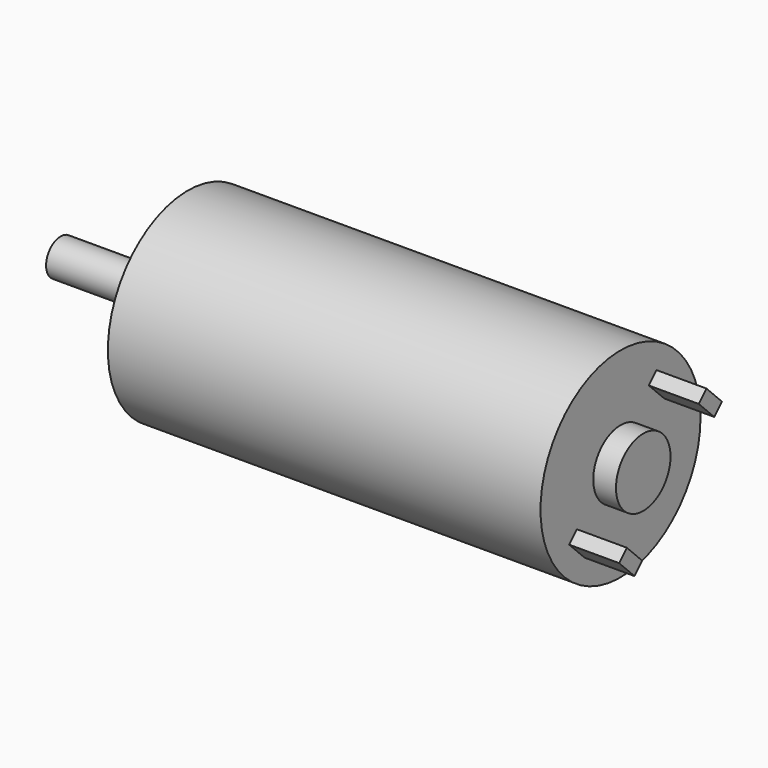
from build123d import *

# Parameters (mm, degrees)
F0_R      = 11
F1_DEPTH  = 47.6
F3_DEPTH  = 2
F4_R      = 2
F5_DEPTH  = 12
F6_R      = 1
F7_DEPTH  = 6
F8_R      = 3.75
F9_DEPTH  = 2.5
F11_DEPTH = 5.5


with BuildPart() as f1:
    # F0 (on Right) → F1 (new body)
    with BuildSketch(Plane.YZ):
        Circle(F0_R)
    extrude(amount=F1_DEPTH)

    # F2 (on face) → F3 (join)
    with BuildSketch(Plane(origin=(0, 0, 0), x_dir=(0, -1, 0), z_dir=(-1, 0, 0))):
        with BuildLine():
            Line((-6, 3.605551), (-6, -3.605551))
            ThreePointArc((-6, -3.605551), (0, -7), (6, -3.605551))
            Line((6, -3.605551), (6, 3.605551))
            ThreePointArc((6, 3.605551), (0, 7), (-6, 3.605551))
        make_face()
    extrude(amount=F3_DEPTH)

    # F4 (on face) → F5 (join)
    with BuildSketch(Plane(origin=(-2, 0, 0), x_dir=(0, -1, 0), z_dir=(-1, 0, 0))):
        Circle(F4_R)
    extrude(amount=F5_DEPTH)

    # F6 (on face) → F7 (cut)
    with BuildSketch(Plane(origin=(0, 0, 0), x_dir=(0, -1, 0), z_dir=(-1, 0, 0))):
        with Locations((6.363961, 6.363961)):
            Circle(F6_R)
        with Locations((6.363961, -6.363961)):
            Circle(F6_R)
        with Locations((-6.363961, -6.363961)):
            Circle(F6_R)
        with Locations((-6.363961, 6.363961)):
            Circle(F6_R)
    extrude(amount=-F7_DEPTH, mode=Mode.SUBTRACT)

    # F8 (on face) → F9 (join)
    with BuildSketch(Plane.YZ.offset(47.6)):
        Circle(F8_R)
    extrude(amount=F9_DEPTH)

    # F10 (on face) → F11 (join)
    with BuildSketch(Plane.YZ.offset(47.6)):
        Polygon((-3.889087, -6.010408), (-6.010408, -3.889087), (-7.071068, -4.949747), (-4.949747, -7.071068), align=None)
        Polygon((4.949747, 7.071068), (3.889087, 6.010408), (6.010408, 3.889087), (7.071068, 4.949747), align=None)
    extrude(amount=F11_DEPTH)


solid = f1.part
